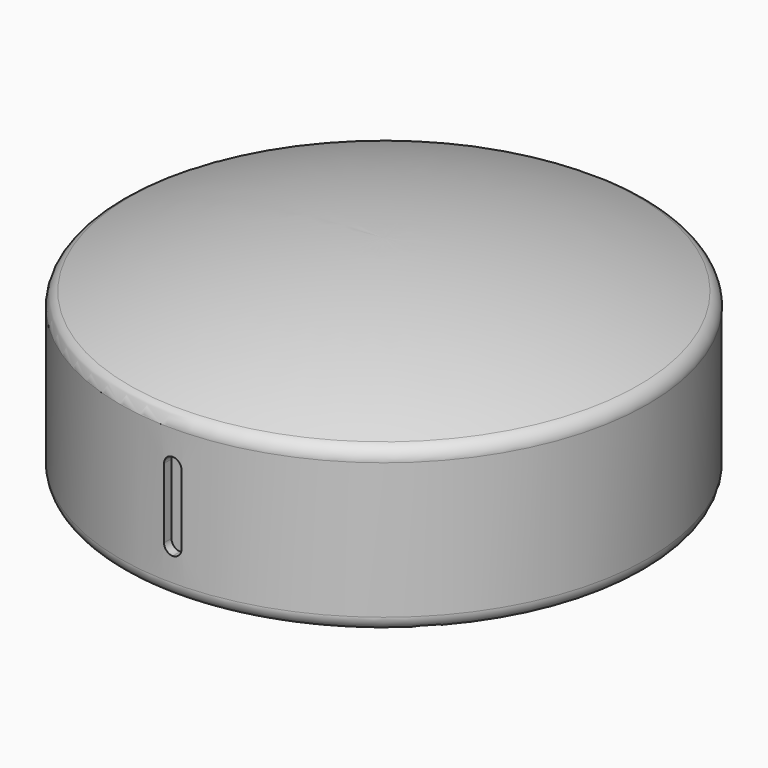
from build123d import *

# Parameters (mm, degrees)
F4_DEPTH = 1.5


with BuildPart() as f1:
    # F0 (on Front) → F1 (revolve)
    with BuildSketch(Plane.XZ):
        with BuildLine():
            Line((-17.149999, 0), (-16.65, 0))
            Line((-16.65, 0), (-16.65, 10))
            ThreePointArc((-16.65, 10), (-8.459056, 12.24401), (0, 13))
            Line((0, 13), (0, 14.499999))
            ThreePointArc((0, 14.499999), (-8.899679, 13.688446), (-17.505781, 11.280558))
            ThreePointArc((-17.505781, 11.280558), (-17.97334, 10.913535), (-18.149999, 10.345989))
            Line((-18.149999, 10.345989), (-18.149999, 1))
            ThreePointArc((-18.149999, 1), (-17.857106, 0.292893), (-17.149999, 0))
        make_face()
    revolve(axis=Axis((0, 0, -3.118609), (0, 0, -1)))

    # F3 (on offset) → F4 (cut)
    with BuildSketch(Plane.XZ.offset(19)):
        with BuildLine():
            ThreePointArc((0, 8.6405), (-0.424264, 8.464764), (-0.6, 8.0405))
            Line((-0.6, 8.0405), (-0.6, 3.2405))
            ThreePointArc((-0.6, 3.2405), (-0.424264, 2.816236), (0, 2.6405))
            ThreePointArc((0, 2.6405), (0.424264, 2.816236), (0.6, 3.2405))
            Line((0.6, 3.2405), (0.6, 8.0405))
            ThreePointArc((0.6, 8.0405), (0.424264, 8.464764), (0, 8.6405))
        make_face()
    extrude(amount=-F4_DEPTH, mode=Mode.SUBTRACT)


solid = f1.part
